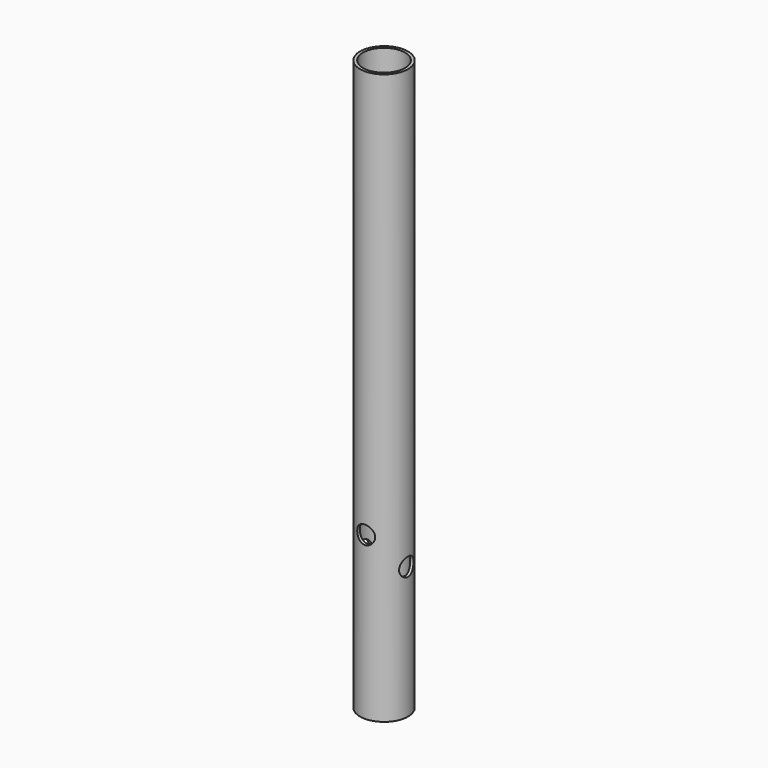
from build123d import *

# Parameters (mm, degrees)
F0_R     = 8
F0_R_2   = 7
F1_DEPTH = 190
F2_R     = 3
F3_DEPTH = 20
F4_R     = 3
F5_DEPTH = 12.5


with BuildPart() as f1:
    # F0 (on Top) → F1 (new body)
    with BuildSketch(Plane.XY):
        Circle(F0_R)
        Circle(F0_R_2, mode=Mode.SUBTRACT)
    extrude(amount=F1_DEPTH)

    # F2 (on Right) → F3 (cut, symmetric)
    with BuildSketch(Plane.YZ):
        with Locations((0, 44)):
            Circle(F2_R)
    extrude(amount=F3_DEPTH, both=True, mode=Mode.SUBTRACT)

    # F4 (on Front) → F5 (cut, symmetric)
    with BuildSketch(Plane.XZ):
        with Locations((0, 54)):
            Circle(F4_R)
    extrude(amount=F5_DEPTH, both=True, mode=Mode.SUBTRACT)


solid = f1.part
